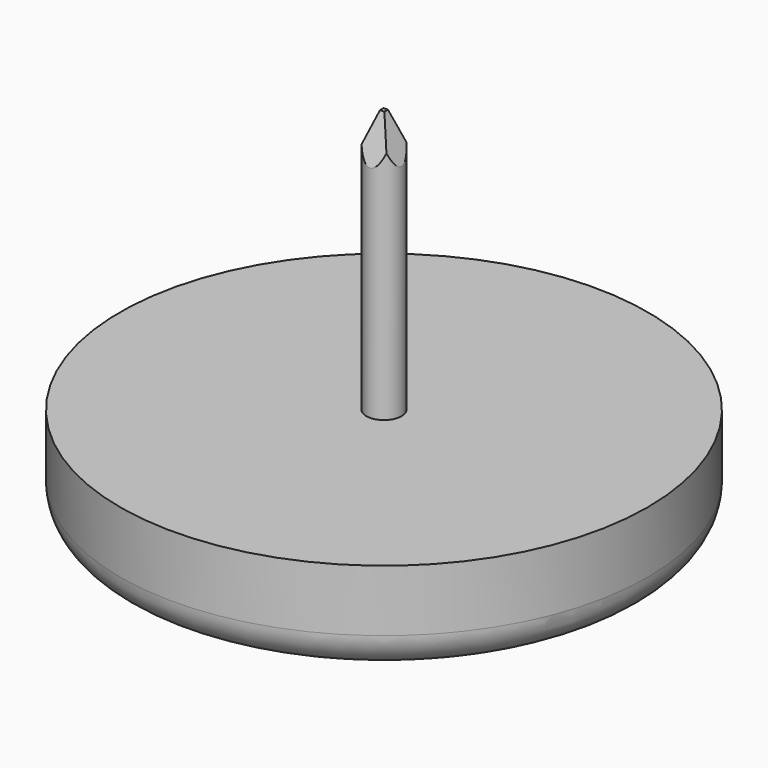
from build123d import *

# Parameters (mm, degrees)
F0_R          = 15
F1_DEPTH      = 5.5
F2_R          = 2
F3_R          = 1
F4_DEPTH      = 15
F6_DEPTH      = 15.001
F6_DEPTH_BACK = 15.001
F8_DEPTH      = 15.001
F8_DEPTH_BACK = 15.001


with BuildPart() as f1:
    # F0 (on Top) → F1 (new body)
    with BuildSketch(Plane.XY):
        Circle(F0_R)
    extrude(amount=F1_DEPTH)

    # F2
    f2_edges = [f1.edges().sort_by_distance(p)[0] for p in [
        (-15, 0, 0),
    ]]
    fillet(f2_edges, radius=F2_R)

    # F3 (on face) → F4 (join)
    with BuildSketch(Plane.XY.offset(5.5)):
        Circle(F3_R)
    extrude(amount=F4_DEPTH)

    # F5 (on Front) → F6 (cut, two sides)
    with BuildSketch(Plane.XZ) as f6_sk:
        Polygon((1, 20.5), (0.125, 20.5), (1, 18), align=None)
        Polygon((-0.125, 20.5), (-1, 20.5), (-1, 18), align=None)
    extrude(amount=-F6_DEPTH, mode=Mode.SUBTRACT)
    extrude(f6_sk.sketch, amount=F6_DEPTH_BACK, mode=Mode.SUBTRACT)

    # F7 (on Right) → F8 (cut, two sides)
    with BuildSketch(Plane.YZ) as f8_sk:
        Polygon((-0.9921567416, 20.5), (-1, 20.5), (-1, 18), (-0.125, 20.5), align=None)
        Polygon((1, 20.5), (0.9921567416, 20.5), (0.125, 20.5), (1, 18), align=None)
    extrude(amount=F8_DEPTH, mode=Mode.SUBTRACT)
    extrude(f8_sk.sketch, amount=-F8_DEPTH_BACK, mode=Mode.SUBTRACT)


solid = f1.part
